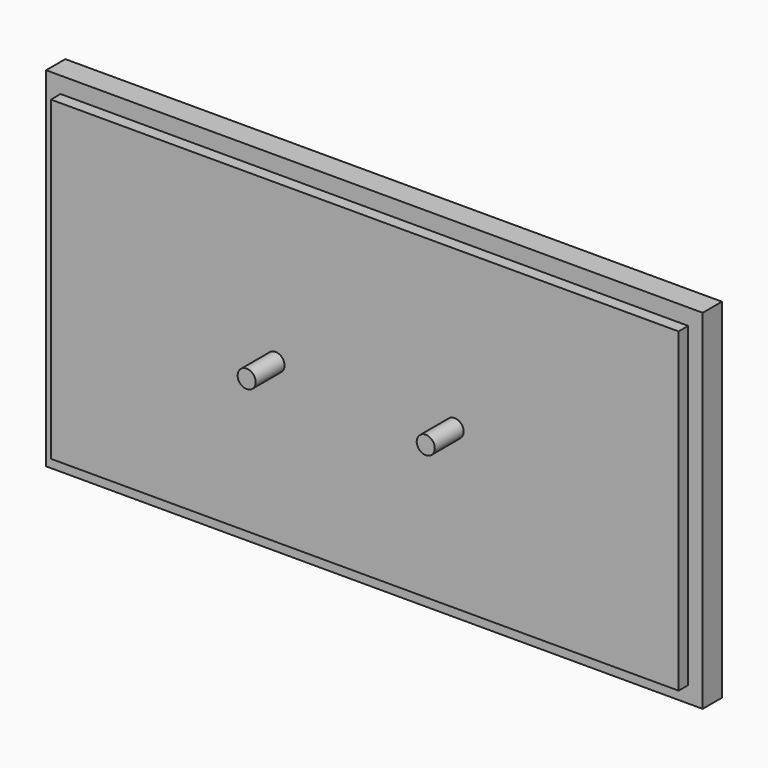
from build123d import *

# Parameters (mm, degrees)
F0_W     = 546
F0_H     = 290
F1_DEPTH = 20
F2_W     = 521.951318
F2_H     = 262.995124
F3_DEPTH = 10
F4_R     = 7.5
F5_DEPTH = 30


with BuildPart() as f1:
    # F0 (on Front) → F1 (new body)
    with BuildSketch(Plane.XZ):
        Rectangle(F0_W, F0_H)
    extrude(amount=F1_DEPTH)

    # F2 (on face) → F3 (join)
    with BuildSketch(Plane.XZ.offset(20)):
        Rectangle(F2_W, F2_H)
    extrude(amount=F3_DEPTH)

    # F4 (on face) → F5 (join)
    with BuildSketch(Plane.XZ.offset(30)):
        with Locations((-74.205883, 0)):
            Circle(F4_R)
        with Locations((74.717641, 0)):
            Circle(F4_R)
    extrude(amount=F5_DEPTH)


solid = f1.part
